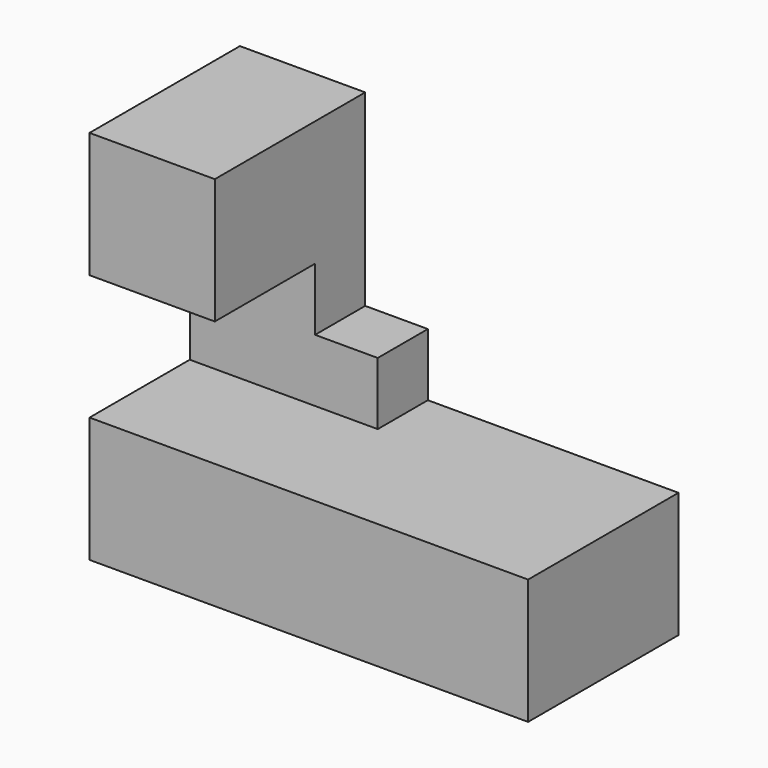
from build123d import *

# Parameters (mm, degrees)
F0_W     = 177.8
F0_H     = 76.2
F1_DEPTH = 50.8
F2_W     = 76.2
F2_H     = 25.4
F3_DEPTH = 25.4
F4_W     = 50.8
F4_H     = 25.4
F5_DEPTH = 76.2
F6_W     = 50.8
F6_H     = 50.8
F7_DEPTH = 50.8


with BuildPart() as f1:
    # F0 (on Top) → F1 (new body)
    with BuildSketch(Plane.XY):
        with Locations((88.9, 38.1)):
            Rectangle(F0_W, F0_H)
    extrude(amount=F1_DEPTH)

    # F2 (on face) → F3 (join)
    with BuildSketch(Plane.XY.offset(50.8)):
        with Locations((38.1, 63.5)):
            Rectangle(F2_W, F2_H)
    extrude(amount=F3_DEPTH)

    # F4 (on face) → F5 (join)
    with BuildSketch(Plane.XY.offset(76.2)):
        with Locations((25.4, 63.5)):
            Rectangle(F4_W, F4_H)
    extrude(amount=F5_DEPTH)

    # F6 (on face) → F7 (join)
    with BuildSketch(Plane.XZ.offset(-50.8)):
        with Locations((25.4, 127)):
            Rectangle(F6_W, F6_H)
    extrude(amount=F7_DEPTH)


solid = f1.part
